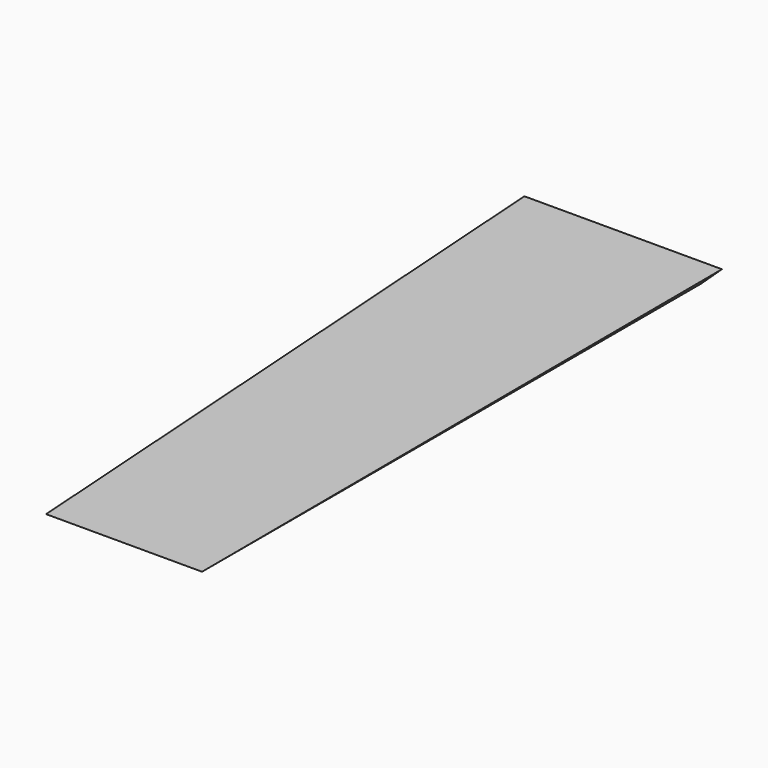
from build123d import *

# Parameters (mm, degrees)
F1_DEPTH = 152.4
F3_DEPTH = 25.4


with BuildPart() as f1:
    # F0 (on Front) → F1 (new body)
    with BuildSketch(Plane.XZ):
        Polygon((0, 4.7625), (0, 0), (19.05, 0), (24.13, 4.7625), (19.05, 4.7625), align=None)
        Polygon((-19.05, 0), (0, 0), (0, 4.7625), (-19.05, 4.7625), (-24.13, 4.7625), align=None)
    extrude(amount=F1_DEPTH)

    # F2 (on Right) → F3 (cut, symmetric)
    with BuildSketch(Plane.YZ):
        Polygon((-152.4, 0), (0, 4.7625), (-152.4, 4.7625), align=None)
    extrude(amount=F3_DEPTH, both=True, mode=Mode.SUBTRACT)


solid = f1.part
